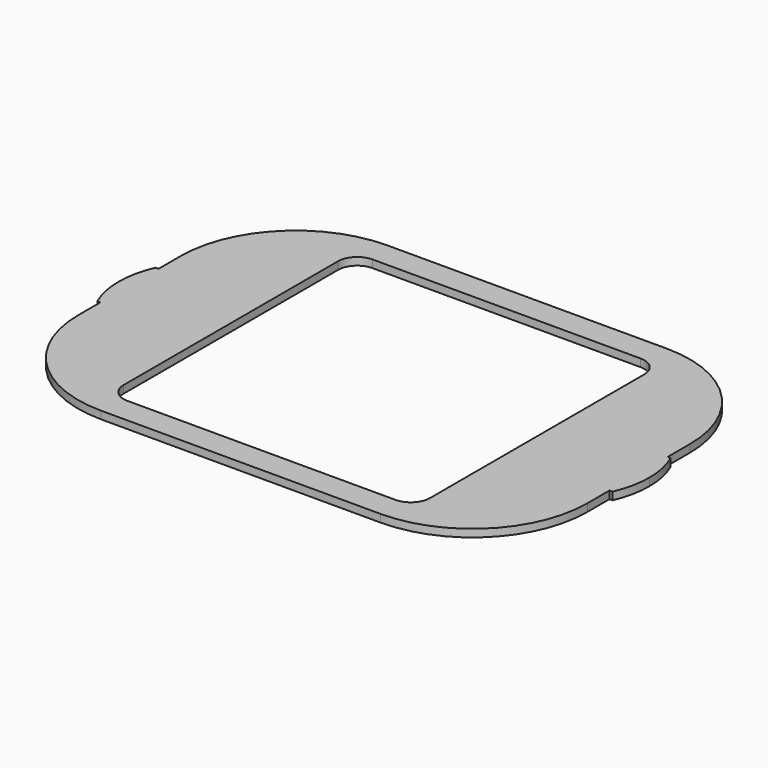
from build123d import *

# Parameters (mm, degrees)
F1_DEPTH = 2


with BuildPart() as f1:
    # F0 (on Top) → F1 (new body)
    with BuildSketch(Plane.XY):
        with BuildLine():
            ThreePointArc((66.5, 16.75), (57.7132034356, 37.9632034356), (36.5, 46.75))
            Line((36.5, 46.75), (-36.5, 46.75))
            ThreePointArc((-36.5, 46.75), (-57.7132034356, 37.9632034356), (-66.5, 16.75))
            Line((-66.5, 16.75), (-66.5, 9.5))
            Line((-66.5, 9.5), (-66.5, -9.5))
            Line((-66.5, -9.5), (-66.5, -16.75))
            ThreePointArc((-66.5, -16.75), (-57.7132034356, -37.9632034356), (-36.5, -46.75))
            Line((-36.5, -46.75), (36.5, -46.75))
            ThreePointArc((36.5, -46.75), (57.7132034356, -37.9632034356), (66.5, -16.75))
            Line((66.5, -16.75), (66.5, -9.5))
            Line((66.5, -9.5), (66.5, 9.5))
            Line((66.5, 9.5), (66.5, 16.75))
        make_face()
        with BuildLine():
            Line((-35, 40), (35, 40))
            ThreePointArc((35, 40), (38.5355339059, 38.5355339059), (40, 35))
            Line((40, 35), (40, -35))
            ThreePointArc((40, -35), (38.5355339059, -38.5355339059), (35, -40))
            Line((35, -40), (-35, -40))
            ThreePointArc((-35, -40), (-38.5355339059, -38.5355339059), (-40, -35))
            Line((-40, -35), (-40, 35))
            ThreePointArc((-40, 35), (-38.5355339059, 38.5355339059), (-35, 40))
        make_face(mode=Mode.SUBTRACT)
        with BuildLine():
            Line((67.3, 9.5), (66.5, 9.5))
            Line((66.5, 9.5), (66.5, -9.5))
            Line((66.5, -9.5), (67.3, -9.5))
            ThreePointArc((67.3, -9.5), (68.7945793088, -4.8541219597), (69.3, 0))
            ThreePointArc((69.3, 0), (68.7945793088, 4.8541219597), (67.3, 9.5))
        make_face()
        with BuildLine():
            Line((-66.5, -9.5), (-66.5, 9.5))
            Line((-66.5, 9.5), (-67.3, 9.5))
            ThreePointArc((-67.3, 9.5), (-68.7945793088, 4.8541219597), (-69.3, 0))
            ThreePointArc((-69.3, 0), (-68.7945793088, -4.8541219597), (-67.3, -9.5))
            Line((-67.3, -9.5), (-66.5, -9.5))
        make_face()
    extrude(amount=F1_DEPTH)


solid = f1.part
